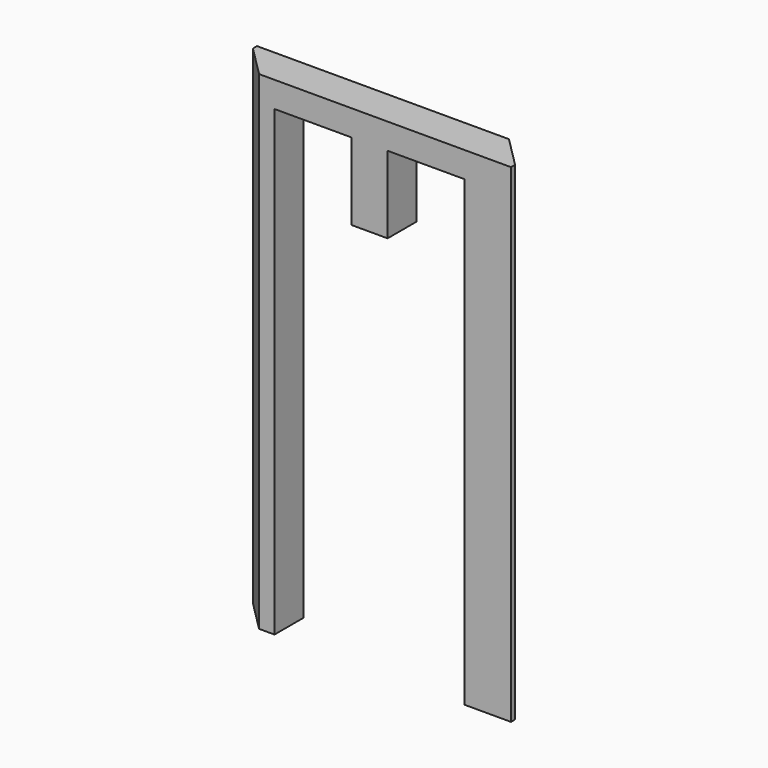
from build123d import *

# Parameters (mm, degrees)
F0_W     = 7
F0_H     = 15
F0_W_2   = 15
F0_H_2   = 5
F0_W_3   = 9
F0_H_3   = 90
F1_DEPTH = 7
F3_R     = 2.6
F4_DEPTH = 16
F5_SIZE  = 6
F6_SIZE  = 6


with BuildPart() as f1:
    # F0 (on Front) → F1 (new body)
    with BuildSketch(Plane.XZ):
        with Locations((0, 7.5)):
            Rectangle(F0_W, F0_H)
        with Locations((-11, 17.5)):
            Rectangle(F0_W_2, F0_H_2)
        with Locations((0, 17.5)):
            Rectangle(F0_W, F0_H_2)
        with Locations((-23, -30)):
            Rectangle(F0_W_3, F0_H_3)
        with Locations((-23, 17.5)):
            Rectangle(F0_W_3, F0_H_2)
    extrude(amount=F1_DEPTH)

    # F2: F1 across plane


with BuildPart() as f1_1:
    add(f1.part)
    add(f1.part.mirror(Plane.YZ))

    # F3 (on Top) → F4 (cut)
    with BuildSketch(Plane.XY):
        with Locations((0, -3.5)):
            Circle(F3_R)
    extrude(amount=F4_DEPTH, mode=Mode.SUBTRACT)

    # F5
    f5_edges = [f1_1.edges().sort_by_distance(p)[0] for p in [
        (-27.5, -7, -27.5),
    ]]
    chamfer(f5_edges, length=F5_SIZE)

    # F6
    f6_edges = [f1_1.edges().sort_by_distance(p)[0] for p in [
        (27.5, 0, -27.5),
    ]]
    chamfer(f6_edges, length=F6_SIZE)


solid = f1_1.part
